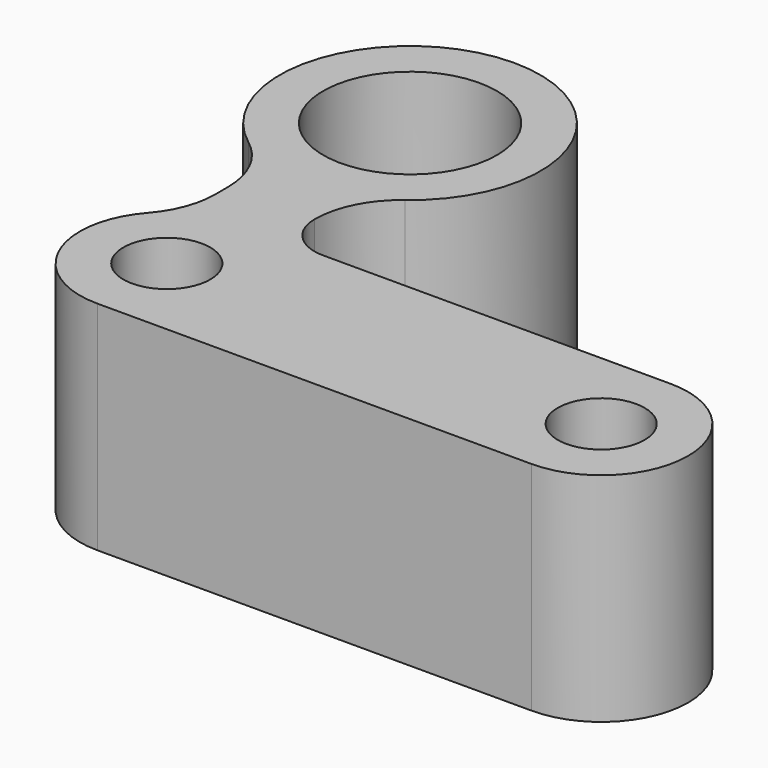
from build123d import *

# Parameters (mm, degrees)
F0_R     = 5
F0_R_2   = 10
F1_DEPTH = 25


with BuildPart() as f1:
    # F0 (on Top) → F1 (new body)
    with BuildSketch(Plane.XY):
        with BuildLine():
            Line((-30.551076, -35.12097), (19.448924, -35.12097))
            ThreePointArc((19.448924, -35.12097), (29.448924, -25.12097), (19.448924, -15.12097))
            Line((19.448924, -15.12097), (-20.551076, -15.12097))
            ThreePointArc((-20.551076, -15.12097), (-24.086609, -13.656504), (-25.551076, -10.12097))
            ThreePointArc((-25.551076, -10.12097), (-24.495347, -5.648834), (-21.551076, -2.12097))
            ThreePointArc((-21.551076, -2.12097), (-30.551076, 24.87903), (-39.551076, -2.12097))
            ThreePointArc((-39.551076, -2.12097), (-36.606804, -5.648834), (-35.551076, -10.12097))
            Line((-35.551076, -10.12097), (-35.551076, -11.892213))
            ThreePointArc((-35.551076, -11.892213), (-36.196932, -15.427747), (-38.051076, -18.506592))
            ThreePointArc((-38.051076, -18.506592), (-39.665454, -29.235348), (-30.551076, -35.12097))
        make_face()
        with Locations((-30.551076, -25.12097)):
            Circle(F0_R, mode=Mode.SUBTRACT)
        with Locations((19.448924, -25.12097)):
            Circle(F0_R, mode=Mode.SUBTRACT)
        with Locations((-30.551076, 9.87903)):
            Circle(F0_R_2, mode=Mode.SUBTRACT)
    extrude(amount=F1_DEPTH)


solid = f1.part
